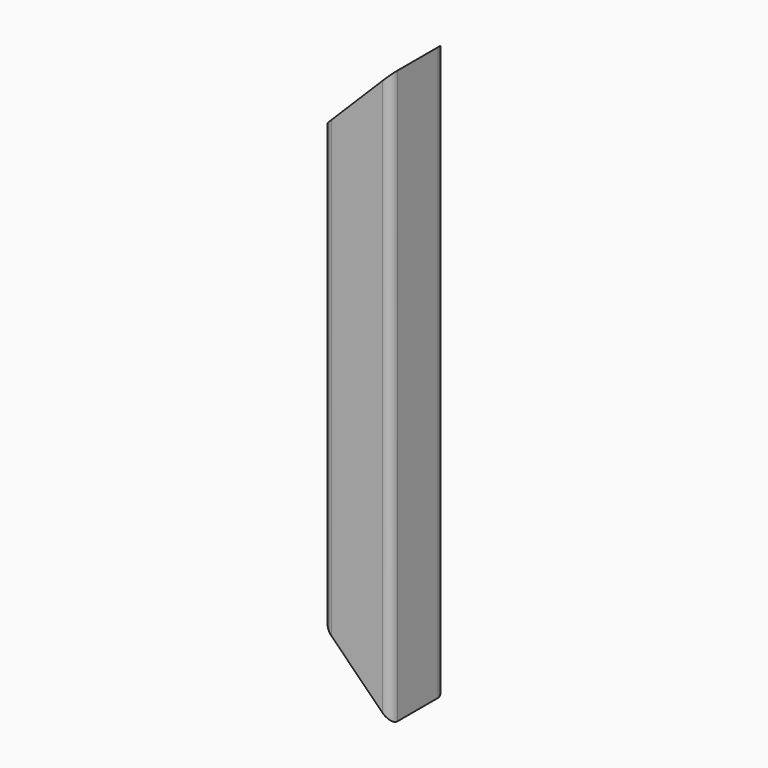
from build123d import *

# Parameters (mm, degrees)
F1_DEPTH = 215.5261469047
F4_DEPTH = 25.4
F5_DEPTH = 25.4


with BuildPart() as f1:
    # F0 (on Top) → F1 (new body)
    with BuildSketch(Plane.XY):
        with BuildLine():
            Line((-10.2649833994, -11.722455886), (8.7850166006, -11.722455886))
            ThreePointArc((8.7850166006, -11.722455886), (11.0300806309, -10.7925199163), (11.9600166006, -8.547455886))
            Line((11.9600166006, -8.547455886), (11.9600166006, 10.502544114))
            ThreePointArc((11.9600166006, 10.502544114), (11.0300806309, 12.7476081443), (8.7850166006, 13.677544114))
            Line((8.7850166006, 13.677544114), (-10.2649833994, 13.677544114))
            ThreePointArc((-10.2649833994, 13.677544114), (-12.5100474297, 12.7476081443), (-13.4399833994, 10.502544114))
            Line((-13.4399833994, 10.502544114), (-13.4399833994, -8.547455886))
            ThreePointArc((-13.4399833994, -8.547455886), (-12.5100474297, -10.7925199163), (-10.2649833994, -11.722455886))
        make_face()
        with BuildLine():
            ThreePointArc((8.7850166006, -5.372455886), (7.8550806309, -7.6175199163), (5.6100166006, -8.547455886))
            Line((5.6100166006, -8.547455886), (-7.0899833994, -8.547455886))
            ThreePointArc((-7.0899833994, -8.547455886), (-9.3350474297, -7.6175199163), (-10.2649833994, -5.372455886))
            Line((-10.2649833994, -5.372455886), (-10.2649833994, 7.327544114))
            ThreePointArc((-10.2649833994, 7.327544114), (-9.3350474297, 9.5726081443), (-7.0899833994, 10.502544114))
            Line((-7.0899833994, 10.502544114), (5.6100166006, 10.502544114))
            ThreePointArc((5.6100166006, 10.502544114), (7.8550806309, 9.5726081443), (8.7850166006, 7.327544114))
            Line((8.7850166006, 7.327544114), (8.7850166006, -5.372455886))
        make_face(mode=Mode.SUBTRACT)
    extrude(amount=F1_DEPTH)

    # F2 (on Front) → F4 (cut, symmetric)
    with BuildSketch(Plane.XZ):
        Polygon((-13.4399833994, 0), (11.9600166006, 0), (-13.4399833994, 25.4), align=None)
    extrude(amount=F4_DEPTH, both=True, mode=Mode.SUBTRACT)

    # F3 (on Front) → F5 (cut, symmetric)
    with BuildSketch(Plane.XZ):
        Polygon((-13.4399833994, 215.5261469047), (-13.4399833994, 190.1261469047), (11.9600166006, 215.5261469047), align=None)
    extrude(amount=F5_DEPTH, both=True, mode=Mode.SUBTRACT)


solid = f1.part
